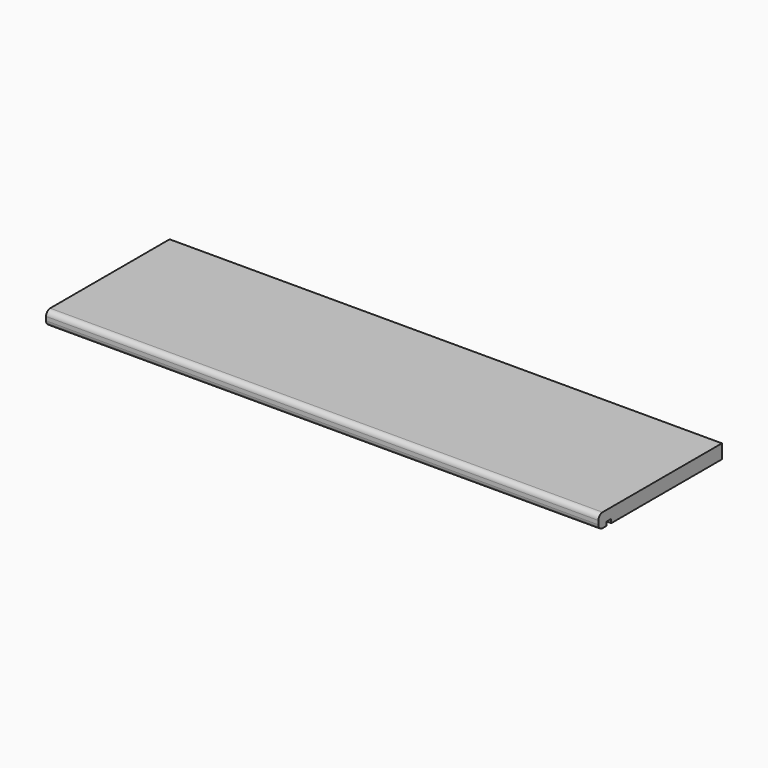
from build123d import *

# Parameters (mm, degrees)
F1_DEPTH  = 862
F1_FACE_W = 862
F1_FACE_H = 6
F2_DEPTH  = 1


with BuildPart() as f1:
    # F0 (on Right) → F1 (new body)
    with BuildSketch(Plane.YZ):
        with BuildLine():
            Line((117.323911, 35.13468), (-115.676089, 35.13468))
            ThreePointArc((-115.676089, 35.13468), (-121.332944, 32.791535), (-123.676089, 27.13468))
            Line((-123.676089, 27.13468), (-123.676089, 21.13468))
            ThreePointArc((-123.676089, 21.13468), (-121.332944, 15.477826), (-115.676089, 13.13468))
            Line((-115.676089, 13.13468), (-107.676089, 13.13468))
            Line((-107.676089, 13.13468), (-107.676089, 19.13468))
            Line((-107.676089, 19.13468), (-97.676089, 19.13468))
            Line((-97.676089, 19.13468), (-97.676089, 13.13468))
            Line((-97.676089, 13.13468), (117.323911, 13.13468))
            Line((117.323911, 13.13468), (117.323911, 35.13468))
        make_face()
    extrude(amount=F1_DEPTH)

    # F1_face (on face) → F2 (join)
    with BuildSketch(Plane(origin=(431, -97.676089, 16.13468), x_dir=(1, 0, 0), z_dir=(0, -1, 0))):
        Rectangle(F1_FACE_W, F1_FACE_H)
    extrude(amount=F2_DEPTH)


solid = f1.part
